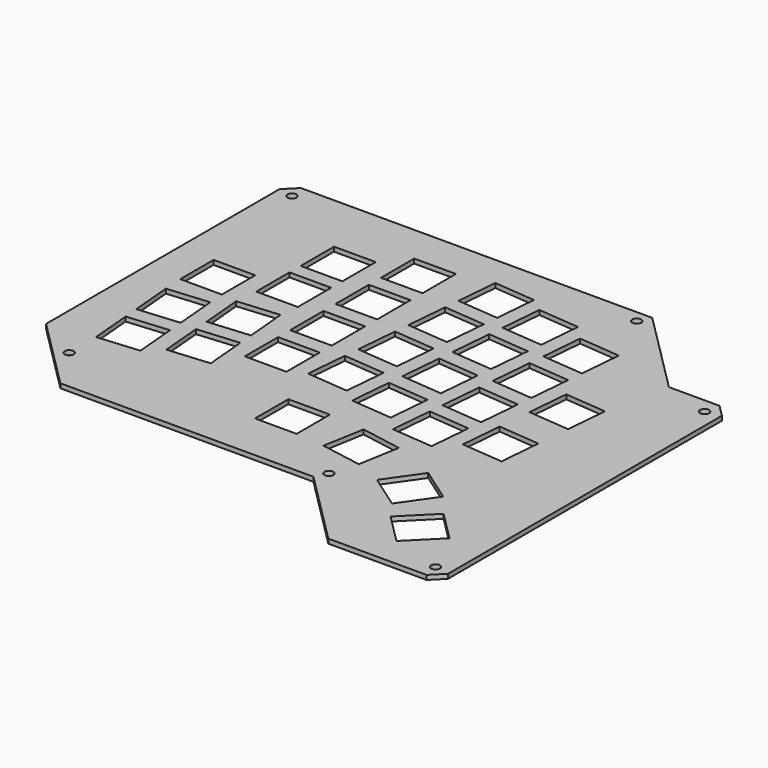
from build123d import *

# Parameters (mm, degrees)
PAD_DEPTH       = 1.5
POCKET_DEPTH    = 1.501
POCKET001_DEPTH = 1.501


with BuildPart() as part:
    # Sketch → Pad (new body)
    with BuildSketch(Plane.XY):
        with BuildLine():
            add(Edge.make_bspline(
                [(16.99768, -18.9992), (20.99818, -14.9987)],
                knots=[0, 0, 2227.386361, 2227.386361], degree=1))
            add(Edge.make_bspline(
                [(20.99818, -14.9987), (138.99896, -14.9987)],
                knots=[0, 0, 46457, 46457], degree=1))
            add(Edge.make_bspline(
                [(138.99896, -14.9987), (166.99992, -42.99966)],
                knots=[0, 0, 15590.290312, 15590.290312], degree=1))
            add(Edge.make_bspline(
                [(166.99992, -42.99966), (183.9976, -42.99966)],
                knots=[0, 0, 6692, 6692], degree=1))
            add(Edge.make_bspline(
                [(183.9976, -42.99966), (187.9981, -46.99762)],
                knots=[0, 0, 2226.679366, 2226.679366], degree=1))
            add(Edge.make_bspline(
                [(187.9981, -46.99762), (187.9981, -161.99866)],
                knots=[0, 0, 45276, 45276], degree=1))
            add(Edge.make_bspline(
                [(187.9981, -161.99866), (183.9976, -165.99916)],
                knots=[0, 0, 2227.386361, 2227.386361], degree=1))
            add(Edge.make_bspline(
                [(183.9976, -165.99916), (150.99792, -165.99916)],
                knots=[0, 0, 12992, 12992], degree=1))
            add(Edge.make_bspline(
                [(150.99792, -165.99916), (125.99924, -140.99794)],
                knots=[0, 0, 13919.397006, 13919.397006], degree=1))
            add(Edge.make_bspline(
                [(125.99924, -140.99794), (40.99814, -140.99794)],
                knots=[0, 0, 33465, 33465], degree=1))
            add(Edge.make_bspline(
                [(40.99814, -140.99794), (16.99768, -116.99748)],
                knots=[0, 0, 13362.903951, 13362.903951], degree=1))
            add(Edge.make_bspline(
                [(16.99768, -116.99748), (16.99768, -18.9992)],
                knots=[0, 0, 38582, 38582], degree=1))
        make_face()
    extrude(amount=-PAD_DEPTH)

    # Sketch001 → Pocket (cut, through all)
    with BuildSketch(Plane.XY):
        with BuildLine():
            add(Edge.make_bspline(
                [(42.59834, -61.17844), (42.59834, -75.17892)],
                knots=[0, 0, 5512, 5512], degree=1))
            add(Edge.make_bspline(
                [(42.59834, -75.17892), (28.59786, -75.17892)],
                knots=[0, 0, 5512, 5512], degree=1))
            add(Edge.make_bspline(
                [(28.59786, -75.17892), (28.59786, -61.17844)],
                knots=[0, 0, 5512, 5512], degree=1))
            add(Edge.make_bspline(
                [(28.59786, -61.17844), (42.59834, -61.17844)],
                knots=[0, 0, 5512, 5512], degree=1))
        make_face()
        with BuildLine():
            add(Edge.make_bspline(
                [(147.31492, -76.962), (148.53666, -63.01486)],
                knots=[0, 0, 5512.027032, 5512.027032], degree=1))
            add(Edge.make_bspline(
                [(148.53666, -63.01486), (162.48126, -64.2366)],
                knots=[0, 0, 5511.030847, 5511.030847], degree=1))
            add(Edge.make_bspline(
                [(162.48126, -64.2366), (161.26206, -78.1812)],
                knots=[0, 0, 5510.943658, 5510.943658], degree=1))
            add(Edge.make_bspline(
                [(161.26206, -78.1812), (147.31492, -76.962)],
                knots=[0, 0, 5511.939858, 5511.939858], degree=1))
        make_face()
        with BuildLine():
            add(Edge.make_bspline(
                [(145.11528, -102.16134), (146.33448, -88.2142)],
                knots=[0, 0, 5511.939858, 5511.939858], degree=1))
            add(Edge.make_bspline(
                [(146.33448, -88.2142), (160.28162, -89.43594)],
                knots=[0, 0, 5512.027032, 5512.027032], degree=1))
            add(Edge.make_bspline(
                [(160.28162, -89.43594), (159.06242, -103.38308)],
                knots=[0, 0, 5511.939858, 5511.939858], degree=1))
            add(Edge.make_bspline(
                [(159.06242, -103.38308), (145.11528, -102.16134)],
                knots=[0, 0, 5512.027032, 5512.027032], degree=1))
        make_face()
        with BuildLine():
            add(Edge.make_bspline(
                [(165.7985, -155.89758), (155.90012, -145.9992)],
                knots=[0, 0, 5511.190253, 5511.190253], degree=1))
            add(Edge.make_bspline(
                [(155.90012, -145.9992), (165.7985, -136.09828)],
                knots=[0, 0, 5511.897405, 5511.897405], degree=1))
            add(Edge.make_bspline(
                [(165.7985, -136.09828), (175.69942, -145.9992)],
                knots=[0, 0, 5512.604466, 5512.604466], degree=1))
            add(Edge.make_bspline(
                [(175.69942, -145.9992), (165.7985, -155.89758)],
                knots=[0, 0, 5511.897405, 5511.897405], degree=1))
        make_face()
        with BuildLine():
            add(Edge.make_bspline(
                [(107.22864, -40.42664), (93.2815, -39.20744)],
                knots=[0, 0, 5511.939858, 5511.939858], degree=1))
            add(Edge.make_bspline(
                [(93.2815, -39.20744), (94.5007, -25.2603)],
                knots=[0, 0, 5511.939858, 5511.939858], degree=1))
            add(Edge.make_bspline(
                [(94.5007, -25.2603), (108.44784, -26.48204)],
                knots=[0, 0, 5512.027032, 5512.027032], degree=1))
            add(Edge.make_bspline(
                [(108.44784, -26.48204), (107.22864, -40.42664)],
                knots=[0, 0, 5510.943658, 5510.943658], degree=1))
        make_face()
        with BuildLine():
            add(Edge.make_bspline(
                [(83.21548, -98.86442), (69.215, -98.86442)],
                knots=[0, 0, 5512, 5512], degree=1))
            add(Edge.make_bspline(
                [(69.215, -98.86442), (69.215, -84.86394)],
                knots=[0, 0, 5512, 5512], degree=1))
            add(Edge.make_bspline(
                [(69.215, -84.86394), (83.21548, -84.86394)],
                knots=[0, 0, 5512, 5512], degree=1))
            add(Edge.make_bspline(
                [(83.21548, -84.86394), (83.21548, -98.86442)],
                knots=[0, 0, 5512, 5512], degree=1))
        make_face()
        with BuildLine():
            add(Edge.make_bspline(
                [(83.21548, -79.81442), (69.215, -79.81442)],
                knots=[0, 0, 5512, 5512], degree=1))
            add(Edge.make_bspline(
                [(69.215, -79.81442), (69.215, -65.81394)],
                knots=[0, 0, 5512, 5512], degree=1))
            add(Edge.make_bspline(
                [(69.215, -65.81394), (83.21548, -65.81394)],
                knots=[0, 0, 5512, 5512], degree=1))
            add(Edge.make_bspline(
                [(83.21548, -65.81394), (83.21548, -79.81442)],
                knots=[0, 0, 5512, 5512], degree=1))
        make_face()
        with BuildLine():
            add(Edge.make_bspline(
                [(83.21548, -60.76442), (69.215, -60.76442)],
                knots=[0, 0, 5512, 5512], degree=1))
            add(Edge.make_bspline(
                [(69.215, -60.76442), (69.215, -46.76394)],
                knots=[0, 0, 5512, 5512], degree=1))
            add(Edge.make_bspline(
                [(69.215, -46.76394), (83.21548, -46.76394)],
                knots=[0, 0, 5512, 5512], degree=1))
            add(Edge.make_bspline(
                [(83.21548, -46.76394), (83.21548, -60.76442)],
                knots=[0, 0, 5512, 5512], degree=1))
        make_face()
        with BuildLine():
            add(Edge.make_bspline(
                [(83.21548, -41.71442), (69.215, -41.71442)],
                knots=[0, 0, 5512, 5512], degree=1))
            add(Edge.make_bspline(
                [(69.215, -41.71442), (69.215, -27.71394)],
                knots=[0, 0, 5512, 5512], degree=1))
            add(Edge.make_bspline(
                [(69.215, -27.71394), (83.21548, -27.71394)],
                knots=[0, 0, 5512, 5512], degree=1))
            add(Edge.make_bspline(
                [(83.21548, -27.71394), (83.21548, -41.71442)],
                knots=[0, 0, 5512, 5512], degree=1))
        make_face()
        with BuildLine():
            add(Edge.make_bspline(
                [(144.33296, -51.17846), (130.38582, -49.95672)],
                knots=[0, 0, 5512.027032, 5512.027032], degree=1))
            add(Edge.make_bspline(
                [(130.38582, -49.95672), (131.60502, -36.00958)],
                knots=[0, 0, 5511.939858, 5511.939858], degree=1))
            add(Edge.make_bspline(
                [(131.60502, -36.00958), (145.55216, -37.23132)],
                knots=[0, 0, 5512.027032, 5512.027032], degree=1))
            add(Edge.make_bspline(
                [(145.55216, -37.23132), (144.33296, -51.17846)],
                knots=[0, 0, 5511.939858, 5511.939858], degree=1))
        make_face()
        with BuildLine():
            add(Edge.make_bspline(
                [(142.65402, -70.34784), (128.70942, -69.12864)],
                knots=[0, 0, 5510.943658, 5510.943658], degree=1))
            add(Edge.make_bspline(
                [(128.70942, -69.12864), (129.92862, -55.1815)],
                knots=[0, 0, 5511.939858, 5511.939858], degree=1))
            add(Edge.make_bspline(
                [(129.92862, -55.1815), (143.87576, -56.4007)],
                knots=[0, 0, 5511.939858, 5511.939858], degree=1))
            add(Edge.make_bspline(
                [(143.87576, -56.4007), (142.65402, -70.34784)],
                knots=[0, 0, 5512.027032, 5512.027032], degree=1))
        make_face()
        with BuildLine():
            add(Edge.make_bspline(
                [(140.99032, -89.37244), (127.04318, -88.15324)],
                knots=[0, 0, 5511.939858, 5511.939858], degree=1))
            add(Edge.make_bspline(
                [(127.04318, -88.15324), (128.26492, -74.2061)],
                knots=[0, 0, 5512.027032, 5512.027032], degree=1))
            add(Edge.make_bspline(
                [(128.26492, -74.2061), (142.21206, -75.4253)],
                knots=[0, 0, 5511.939858, 5511.939858], degree=1))
            add(Edge.make_bspline(
                [(142.21206, -75.4253), (140.99032, -89.37244)],
                knots=[0, 0, 5512.027032, 5512.027032], degree=1))
        make_face()
        with BuildLine():
            add(Edge.make_bspline(
                [(139.35202, -108.11002), (125.40488, -106.89082)],
                knots=[0, 0, 5511.939858, 5511.939858], degree=1))
            add(Edge.make_bspline(
                [(125.40488, -106.89082), (126.62408, -92.94368)],
                knots=[0, 0, 5511.939858, 5511.939858], degree=1))
            add(Edge.make_bspline(
                [(126.62408, -92.94368), (140.57122, -94.16288)],
                knots=[0, 0, 5511.939858, 5511.939858], degree=1))
            add(Edge.make_bspline(
                [(140.57122, -94.16288), (139.35202, -108.11002)],
                knots=[0, 0, 5511.939858, 5511.939858], degree=1))
        make_face()
        with BuildLine():
            add(Edge.make_bspline(
                [(151.59736, -140.00226), (140.12926, -131.97078)],
                knots=[0, 0, 5512.120191, 5512.120191], degree=1))
            add(Edge.make_bspline(
                [(140.12926, -131.97078), (148.1582, -120.50268)],
                knots=[0, 0, 5511.546607, 5511.546607], degree=1))
            add(Edge.make_bspline(
                [(148.1582, -120.50268), (159.6263, -128.53416)],
                knots=[0, 0, 5512.120191, 5512.120191], degree=1))
            add(Edge.make_bspline(
                [(159.6263, -128.53416), (151.59736, -140.00226)],
                knots=[0, 0, 5511.546607, 5511.546607], degree=1))
        make_face()
        with BuildLine():
            add(Edge.make_bspline(
                [(125.81636, -45.16628), (111.87176, -43.94454)],
                knots=[0, 0, 5511.030847, 5511.030847], degree=1))
            add(Edge.make_bspline(
                [(111.87176, -43.94454), (113.09096, -29.99994)],
                knots=[0, 0, 5510.943658, 5510.943658], degree=1))
            add(Edge.make_bspline(
                [(113.09096, -29.99994), (127.0381, -31.21914)],
                knots=[0, 0, 5511.939858, 5511.939858], degree=1))
            add(Edge.make_bspline(
                [(127.0381, -31.21914), (125.81636, -45.16628)],
                knots=[0, 0, 5512.027032, 5512.027032], degree=1))
        make_face()
        with BuildLine():
            add(Edge.make_bspline(
                [(124.15774, -64.14262), (110.2106, -62.92342)],
                knots=[0, 0, 5511.939858, 5511.939858], degree=1))
            add(Edge.make_bspline(
                [(110.2106, -62.92342), (111.4298, -48.97628)],
                knots=[0, 0, 5511.939858, 5511.939858], degree=1))
            add(Edge.make_bspline(
                [(111.4298, -48.97628), (125.37694, -50.19548)],
                knots=[0, 0, 5511.939858, 5511.939858], degree=1))
            add(Edge.make_bspline(
                [(125.37694, -50.19548), (124.15774, -64.14262)],
                knots=[0, 0, 5511.939858, 5511.939858], degree=1))
        make_face()
        with BuildLine():
            add(Edge.make_bspline(
                [(122.49658, -83.1215), (108.54944, -81.89976)],
                knots=[0, 0, 5512.027032, 5512.027032], degree=1))
            add(Edge.make_bspline(
                [(108.54944, -81.89976), (109.77118, -67.95262)],
                knots=[0, 0, 5512.027032, 5512.027032], degree=1))
            add(Edge.make_bspline(
                [(109.77118, -67.95262), (123.71578, -69.17436)],
                knots=[0, 0, 5511.030847, 5511.030847], degree=1))
            add(Edge.make_bspline(
                [(123.71578, -69.17436), (122.49658, -83.1215)],
                knots=[0, 0, 5511.939858, 5511.939858], degree=1))
        make_face()
        with BuildLine():
            add(Edge.make_bspline(
                [(120.83542, -102.09784), (106.89082, -100.87864)],
                knots=[0, 0, 5510.943658, 5510.943658], degree=1))
            add(Edge.make_bspline(
                [(106.89082, -100.87864), (108.11002, -86.9315)],
                knots=[0, 0, 5511.939858, 5511.939858], degree=1))
            add(Edge.make_bspline(
                [(108.11002, -86.9315), (122.05716, -88.1507)],
                knots=[0, 0, 5511.939858, 5511.939858], degree=1))
            add(Edge.make_bspline(
                [(122.05716, -88.1507), (120.83542, -102.09784)],
                knots=[0, 0, 5512.027032, 5512.027032], degree=1))
        make_face()
        with BuildLine():
            add(Edge.make_bspline(
                [(130.82778, -128.0033), (117.04066, -125.56998)],
                knots=[0, 0, 5511.891508, 5511.891508], degree=1))
            add(Edge.make_bspline(
                [(117.04066, -125.56998), (119.47144, -111.78286)],
                knots=[0, 0, 5511.71779, 5511.71779], degree=1))
            add(Edge.make_bspline(
                [(119.47144, -111.78286), (133.2611, -114.21364)],
                knots=[0, 0, 5512.702604, 5512.702604], degree=1))
            add(Edge.make_bspline(
                [(133.2611, -114.21364), (130.82778, -128.0033)],
                knots=[0, 0, 5512.876291, 5512.876291], degree=1))
        make_face()
        with BuildLine():
            add(Edge.make_bspline(
                [(105.56748, -59.40552), (91.62034, -58.18378)],
                knots=[0, 0, 5512.027032, 5512.027032], degree=1))
            add(Edge.make_bspline(
                [(91.62034, -58.18378), (92.84208, -44.23918)],
                knots=[0, 0, 5511.030847, 5511.030847], degree=1))
            add(Edge.make_bspline(
                [(92.84208, -44.23918), (106.78922, -45.45838)],
                knots=[0, 0, 5511.939858, 5511.939858], degree=1))
            add(Edge.make_bspline(
                [(106.78922, -45.45838), (105.56748, -59.40552)],
                knots=[0, 0, 5512.027032, 5512.027032], degree=1))
        make_face()
        with BuildLine():
            add(Edge.make_bspline(
                [(103.90632, -78.38186), (89.96172, -77.16266)],
                knots=[0, 0, 5510.943658, 5510.943658], degree=1))
            add(Edge.make_bspline(
                [(89.96172, -77.16266), (91.18092, -63.21552)],
                knots=[0, 0, 5511.939858, 5511.939858], degree=1))
            add(Edge.make_bspline(
                [(91.18092, -63.21552), (105.12806, -64.43472)],
                knots=[0, 0, 5511.939858, 5511.939858], degree=1))
            add(Edge.make_bspline(
                [(105.12806, -64.43472), (103.90632, -78.38186)],
                knots=[0, 0, 5512.027032, 5512.027032], degree=1))
        make_face()
        with BuildLine():
            add(Edge.make_bspline(
                [(102.2477, -97.36074), (88.30056, -96.139)],
                knots=[0, 0, 5512.027032, 5512.027032], degree=1))
            add(Edge.make_bspline(
                [(88.30056, -96.139), (89.51976, -82.1944)],
                knots=[0, 0, 5510.943658, 5510.943658], degree=1))
            add(Edge.make_bspline(
                [(89.51976, -82.1944), (103.4669, -83.4136)],
                knots=[0, 0, 5511.939858, 5511.939858], degree=1))
            add(Edge.make_bspline(
                [(103.4669, -83.4136), (102.2477, -97.36074)],
                knots=[0, 0, 5511.939858, 5511.939858], degree=1))
        make_face()
        with BuildLine():
            add(Edge.make_bspline(
                [(107.33278, -124.72416), (93.33484, -124.72416)],
                knots=[0, 0, 5511, 5511], degree=1))
            add(Edge.make_bspline(
                [(93.33484, -124.72416), (93.33484, -110.72368)],
                knots=[0, 0, 5512, 5512], degree=1))
            add(Edge.make_bspline(
                [(93.33484, -110.72368), (107.33278, -110.72368)],
                knots=[0, 0, 5511, 5511], degree=1))
            add(Edge.make_bspline(
                [(107.33278, -110.72368), (107.33278, -124.72416)],
                knots=[0, 0, 5512, 5512], degree=1))
        make_face()
        with BuildLine():
            add(Edge.make_bspline(
                [(62.57544, -49.57826), (48.57496, -49.57826)],
                knots=[0, 0, 5512, 5512], degree=1))
            add(Edge.make_bspline(
                [(48.57496, -49.57826), (48.57496, -35.57778)],
                knots=[0, 0, 5512, 5512], degree=1))
            add(Edge.make_bspline(
                [(48.57496, -35.57778), (62.57544, -35.57778)],
                knots=[0, 0, 5512, 5512], degree=1))
            add(Edge.make_bspline(
                [(62.57544, -35.57778), (62.57544, -49.57826)],
                knots=[0, 0, 5512, 5512], degree=1))
        make_face()
        with BuildLine():
            add(Edge.make_bspline(
                [(62.57544, -68.26758), (48.57496, -68.26758)],
                knots=[0, 0, 5512, 5512], degree=1))
            add(Edge.make_bspline(
                [(48.57496, -68.26758), (48.57496, -54.2671)],
                knots=[0, 0, 5512, 5512], degree=1))
            add(Edge.make_bspline(
                [(48.57496, -54.2671), (62.57544, -54.2671)],
                knots=[0, 0, 5512, 5512], degree=1))
            add(Edge.make_bspline(
                [(62.57544, -54.2671), (62.57544, -68.26758)],
                knots=[0, 0, 5512, 5512], degree=1))
        make_face()
        with BuildLine():
            add(Edge.make_bspline(
                [(63.07328, -88.52916), (49.12868, -89.7509)],
                knots=[0, 0, 5511.030847, 5511.030847], degree=1))
            add(Edge.make_bspline(
                [(49.12868, -89.7509), (47.90694, -75.80376)],
                knots=[0, 0, 5512.027032, 5512.027032], degree=1))
            add(Edge.make_bspline(
                [(47.90694, -75.80376), (61.85408, -74.58202)],
                knots=[0, 0, 5512.027032, 5512.027032], degree=1))
            add(Edge.make_bspline(
                [(61.85408, -74.58202), (63.07328, -88.52916)],
                knots=[0, 0, 5511.939858, 5511.939858], degree=1))
        make_face()
        with BuildLine():
            add(Edge.make_bspline(
                [(64.73444, -107.50804), (50.7873, -108.72724)],
                knots=[0, 0, 5511.939858, 5511.939858], degree=1))
            add(Edge.make_bspline(
                [(50.7873, -108.72724), (49.5681, -94.7801)],
                knots=[0, 0, 5511.939858, 5511.939858], degree=1))
            add(Edge.make_bspline(
                [(49.5681, -94.7801), (63.51524, -93.5609)],
                knots=[0, 0, 5511.939858, 5511.939858], degree=1))
            add(Edge.make_bspline(
                [(63.51524, -93.5609), (64.73444, -107.50804)],
                knots=[0, 0, 5511.939858, 5511.939858], degree=1))
        make_face()
        with BuildLine():
            add(Edge.make_bspline(
                [(44.18584, -94.47276), (30.24124, -95.69196)],
                knots=[0, 0, 5510.943658, 5510.943658], degree=1))
            add(Edge.make_bspline(
                [(30.24124, -95.69196), (29.0195, -81.74736)],
                knots=[0, 0, 5511.030847, 5511.030847], degree=1))
            add(Edge.make_bspline(
                [(29.0195, -81.74736), (42.96664, -80.52562)],
                knots=[0, 0, 5512.027032, 5512.027032], degree=1))
            add(Edge.make_bspline(
                [(42.96664, -80.52562), (44.18584, -94.47276)],
                knots=[0, 0, 5511.939858, 5511.939858], degree=1))
        make_face()
        with BuildLine():
            add(Edge.make_bspline(
                [(45.847, -113.4491), (31.89986, -114.67084)],
                knots=[0, 0, 5512.027032, 5512.027032], degree=1))
            add(Edge.make_bspline(
                [(31.89986, -114.67084), (30.68066, -100.7237)],
                knots=[0, 0, 5511.939858, 5511.939858], degree=1))
            add(Edge.make_bspline(
                [(30.68066, -100.7237), (44.6278, -99.5045)],
                knots=[0, 0, 5511.939858, 5511.939858], degree=1))
            add(Edge.make_bspline(
                [(44.6278, -99.5045), (45.847, -113.4491)],
                knots=[0, 0, 5510.943658, 5510.943658], degree=1))
        make_face()
    extrude(amount=-POCKET_DEPTH, mode=Mode.SUBTRACT)

    # Sketch002 → Pocket001 (cut, through all)
    with BuildSketch(Plane.XY):
        with BuildLine():
            add(Edge.make_bspline(
                [(33.499936, -126.000002), (33.499936, -123.401927), (31.249936, -124.700964), (28.999937, -126.000002), (31.249936, -127.29904), (33.499936, -128.598077), (33.499936, -126.000002)],
                knots=[0, 0, 0, 2.094395, 2.094395, 4.18879, 4.18879, 6.283185, 6.283185, 6.283185], degree=2, weights=[1, 0.5, 1, 0.5, 1, 0.5, 1]))
        make_face()
        with BuildLine():
            add(Edge.make_bspline(
                [(23.500006, -20.000011), (23.500006, -17.401935), (21.250007, -18.700973), (19.000008, -20.000011), (21.250007, -21.299049), (23.500006, -22.598086), (23.500006, -20.000011)],
                knots=[0, 0, 0, 2.094395, 2.094395, 4.18879, 4.18879, 6.283185, 6.283185, 6.283185], degree=2, weights=[1, 0.5, 1, 0.5, 1, 0.5, 1]))
        make_face()
        with BuildLine():
            add(Edge.make_bspline(
                [(138.49998, -18.999987), (138.49998, -16.401912), (136.24998, -17.70095), (133.999981, -18.999987), (136.24998, -20.299025), (138.49998, -21.598063), (138.49998, -18.999987)],
                knots=[0, 0, 0, 2.094395, 2.094395, 4.18879, 4.18879, 6.283185, 6.283185, 6.283185], degree=2, weights=[1, 0.5, 1, 0.5, 1, 0.5, 1]))
        make_face()
        with BuildLine():
            add(Edge.make_bspline(
                [(184.499888, -160.999932), (184.499888, -158.401857), (182.249888, -159.700894), (179.999889, -160.999932), (182.249888, -162.29897), (184.499888, -163.598007), (184.499888, -160.999932)],
                knots=[0, 0, 0, 2.094395, 2.094395, 4.18879, 4.18879, 6.283185, 6.283185, 6.283185], degree=2, weights=[1, 0.5, 1, 0.5, 1, 0.5, 1]))
        make_face()
        with BuildLine():
            add(Edge.make_bspline(
                [(129.499998, -136.99998), (129.499998, -134.401905), (127.249998, -135.700942), (124.999999, -136.99998), (127.249998, -138.299018), (129.499998, -139.598055), (129.499998, -136.99998)],
                knots=[0, 0, 0, 2.094395, 2.094395, 4.18879, 4.18879, 6.283185, 6.283185, 6.283185], degree=2, weights=[1, 0.5, 1, 0.5, 1, 0.5, 1]))
        make_face()
        with BuildLine():
            add(Edge.make_bspline(
                [(184.499888, -47.999904), (184.499888, -45.401829), (182.249888, -46.700866), (179.999889, -47.999904), (182.249888, -49.298942), (184.499888, -50.597979), (184.499888, -47.999904)],
                knots=[0, 0, 0, 2.094395, 2.094395, 4.18879, 4.18879, 6.283185, 6.283185, 6.283185], degree=2, weights=[1, 0.5, 1, 0.5, 1, 0.5, 1]))
        make_face()
    extrude(amount=-POCKET001_DEPTH, mode=Mode.SUBTRACT)


solid = part.part
